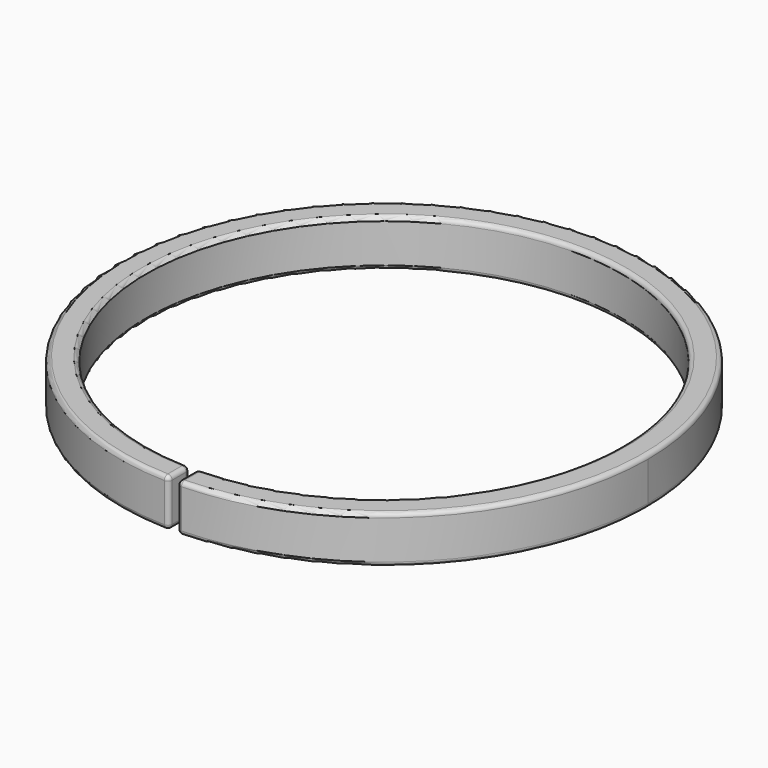
from build123d import *

# Parameters (mm, degrees)
F0_R     = 31.25
F0_R_2   = 28.18
F1_DEPTH = 5.6
F3_DEPTH = 25
F4_R     = 0.5


with BuildPart() as f1:
    # F0 (on Top) → F1 (new body)
    with BuildSketch(Plane.XY):
        Circle(F0_R)
        Circle(F0_R_2, mode=Mode.SUBTRACT)
    extrude(amount=F1_DEPTH)

    # F2 (on face) → F3 (cut)
    with BuildSketch(Plane.XY.offset(5.6)):
        with BuildLine():
            ThreePointArc((0.5, -28.1755638808), (0, -28.18), (-0.5, -28.1755638808))
            Line((-0.5, -28.1755638808), (-0.5, -31.245999744))
            ThreePointArc((-0.5, -31.245999744), (0, -31.25), (0.5, -31.245999744))
            Line((0.5, -31.245999744), (0.5, -28.1755638808))
        make_face()
    extrude(amount=-F3_DEPTH, mode=Mode.SUBTRACT)

    # F4
    f4_edges = [f1.edges().sort_by_distance(p)[0] for p in [
        (-0.5, -31.246, 2.8),
        (-0.5, -28.175564, 2.8),
        (0.5, -31.246, 2.8),
        (0.5, -28.175564, 2.8),
        (22.273162, -21.919597, 5.6),
        (0.5, -29.710782, 5.6),
        (20.102269, -19.748701, 5.6),
        (-19.748701, 20.102269, 5.6),
        (-0.5, -29.710782, 5.6),
        (-21.919597, 22.273162, 5.6),
        (22.273162, -21.919597, 0),
        (0.5, -29.710782, 0),
        (20.102269, -19.748701, 0),
        (-19.748701, 20.102269, 0),
        (-0.5, -29.710782, 0),
        (-21.919597, 22.273162, 0),
    ]]
    fillet(f4_edges, radius=F4_R)


solid = f1.part
